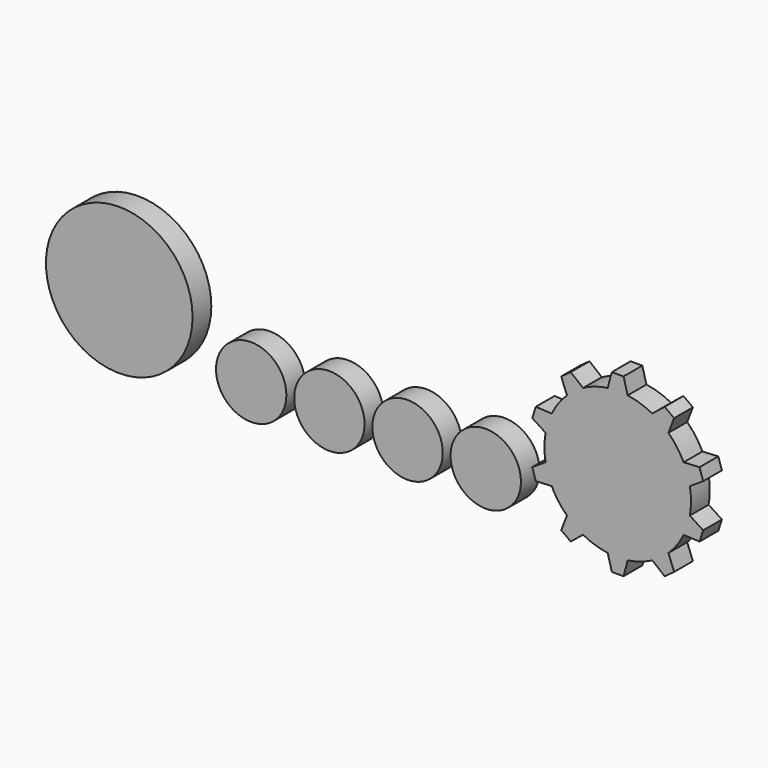
from build123d import *

# Parameters (mm, degrees)
F1_DEPTH = 2
F0_R     = 6
F0_R_2   = 12.5
F2_COUNT = 10


with BuildPart() as f1:
    # F0 (on Front) → F1 (new body, symmetric)
    with BuildSketch(Plane.XZ):
        with BuildLine():
            ThreePointArc((44.2010303882, 0.1162810263), (51.9210636303, 4.2845535682), (55, 12.5))
            ThreePointArc((55, 12.5), (34.2845535682, 21.9210636303), (40.7989696118, 0.1162810263))
            ThreePointArc((40.7989696118, 0.1162810263), (42.5, 0), (44.2010303882, 0.1162810263))
        make_face()
        with BuildLine():
            ThreePointArc((44.2010303882, 0.1162810263), (42.5, 0), (40.7989696118, 0.1162810263))
            Line((40.7989696118, 0.1162810263), (41.5, -2.5))
            Line((41.5, -2.5), (42.5, -2.5))
            Line((42.5, -2.5), (43.5, -2.5))
            Line((43.5, -2.5), (44.2010303882, 0.1162810263))
        make_face()
    extrude(amount=F1_DEPTH, both=True)

    # F2: F1 ×10 about axis
    f2_axis = Axis((42.5, 0, 12.5), (0, -1, 0))


with BuildPart() as f1b:
    # F0 (on Front) → F1, piece 2 (new body, symmetric)
    with BuildSketch(Plane.XZ):
        with Locations((20, 6)):
            Circle(F0_R)
    extrude(amount=F1_DEPTH, both=True)


with BuildPart() as f1c:
    # F0 (on Front) → F1, piece 3 (new body, symmetric)
    with BuildSketch(Plane.XZ):
        with Locations((6.6666666667, 6)):
            Circle(F0_R)
    extrude(amount=F1_DEPTH, both=True)


with BuildPart() as f1d:
    # F0 (on Front) → F1, piece 4 (new body, symmetric)
    with BuildSketch(Plane.XZ):
        with Locations((-6.6666666667, 6)):
            Circle(F0_R)
    extrude(amount=F1_DEPTH, both=True)


with BuildPart() as f1e:
    # F0 (on Front) → F1, piece 5 (new body, symmetric)
    with BuildSketch(Plane.XZ):
        with Locations((-20, 6)):
            Circle(F0_R)
    extrude(amount=F1_DEPTH, both=True)


with BuildPart() as f1f:
    # F0 (on Front) → F1, piece 6 (new body, symmetric)
    with BuildSketch(Plane.XZ):
        with Locations((-42.5, 12.5)):
            Circle(F0_R_2)
    extrude(amount=F1_DEPTH, both=True)


with BuildPart() as f1_1:
    add(f1.part)
    for i in range(1, F2_COUNT):
        add(f1.part.rotate(f2_axis, i * 360 / F2_COUNT))


solid = Compound([f1b.part, f1c.part, f1d.part, f1e.part, f1f.part, f1_1.part])
